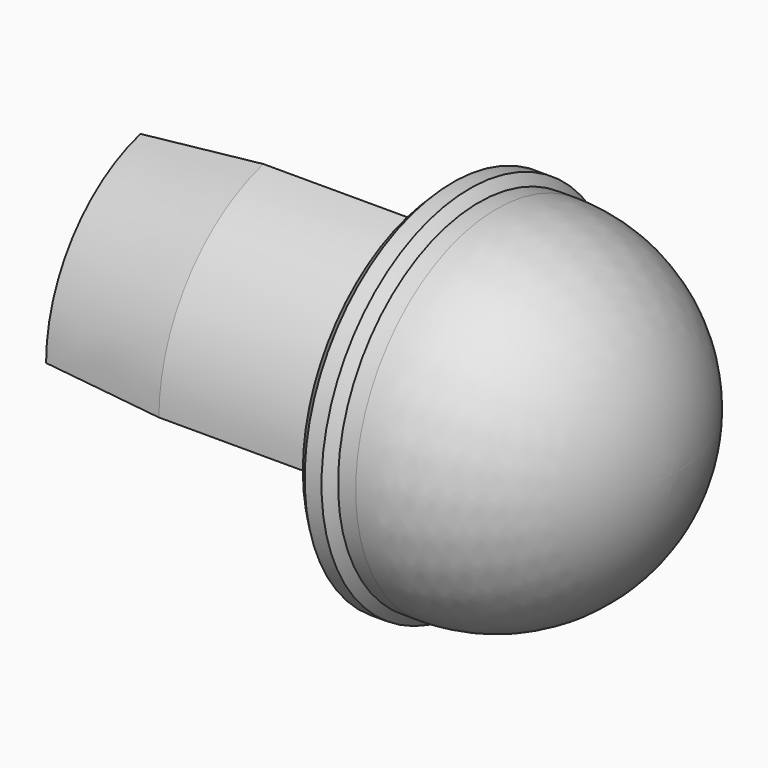
from build123d import *

# Parameters (mm, degrees)
F0_W     = 10
F0_H     = 50
F2_ANGLE = -75


with BuildPart() as f1:
    # F0 (on Top) → F1 (revolve)
    with BuildSketch(Plane.XY):
        with Locations((-5, 25)):
            Rectangle(F0_W, F0_H)
        with BuildLine():
            Line((0, 50), (0, 0))
            Line((0, 0), (55, 0))
            ThreePointArc((55, 0), (40.355339, 35.355339), (5, 50))
            Line((5, 50), (0, 50))
        make_face()
        Polygon((-10, 50), (0, 50), (-2.608035, 52.608035), (-7.391965, 52.608035), align=None)
    revolve(axis=Axis((27.5, 0, 0), (1, 0, 0)))

    # F0 (on Top) → F2 (revolve)
    with BuildSketch(Plane.XY):
        Polygon((-50.859153, -50), (-10, -50), (-10, -47.028106), (-51.016824, -47.028106), (-86.745456, -42.243611), (-86.745456, -45.194391), align=None)
    revolve(axis=Axis((27.5, 0, 0), (1, 0, 0)), revolution_arc=F2_ANGLE)


solid = f1.part
